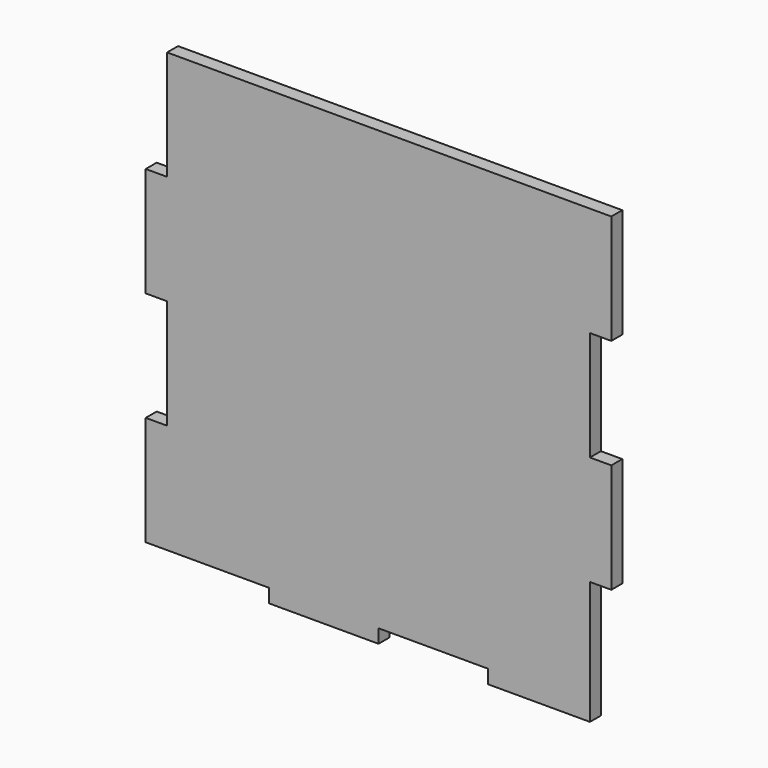
from build123d import *

# Parameters (mm, degrees)
F0_W     = 25.4
F0_H     = 3.175
F1_DEPTH = 3.175
F2_W     = 3.175
F2_H     = 25.4
F3_DEPTH = 3.175
F4_W     = 1.778
F4_H     = 25.4
F4_H_2   = 28.575
F5_DEPTH = 3.175


with BuildPart() as f1:
    # F0 (on Front) → F1 (new body)
    with BuildSketch(Plane.XZ):
        Polygon((25.4, -39.8197), (50.8, -39.8197), (50.8, 61.7803), (-50.8, 61.7803), (-50.8, -39.8197), (-25.4, -39.8197), (0, -39.8197), align=None)
        with Locations((-12.7, -41.4072)):
            Rectangle(F0_W, F0_H)
        with Locations((38.1, -41.4072)):
            Rectangle(F0_W, F0_H)
    extrude(amount=F1_DEPTH)

    # F2 (on face) → F3 (join)
    with BuildSketch(Plane.XZ.offset(3.175)):
        with Locations((-52.3875, 23.6803)):
            Rectangle(F2_W, F2_H)
        with Locations((-52.3875, -27.1197)):
            Rectangle(F2_W, F2_H)
        with Locations((52.3875, 49.0803)):
            Rectangle(F2_W, F2_H)
        with Locations((52.3875, -1.7197)):
            Rectangle(F2_W, F2_H)
    extrude(amount=-F3_DEPTH)

    # F4 (on face) → F5 (cut)
    with BuildSketch(Plane(origin=(0, 0, 0), x_dir=(-1, 0, 0), z_dir=(0, 1, 0))):
        with Locations((-49.911, 23.6803)):
            Rectangle(F4_W, F4_H)
        with Locations((49.911, 49.0803)):
            Rectangle(F4_W, F4_H)
        with Locations((49.911, -1.7197)):
            Rectangle(F4_W, F4_H)
        with Locations((-49.911, -28.7072)):
            Rectangle(F4_W, F4_H_2)
    extrude(amount=-F5_DEPTH, mode=Mode.SUBTRACT)


solid = f1.part
